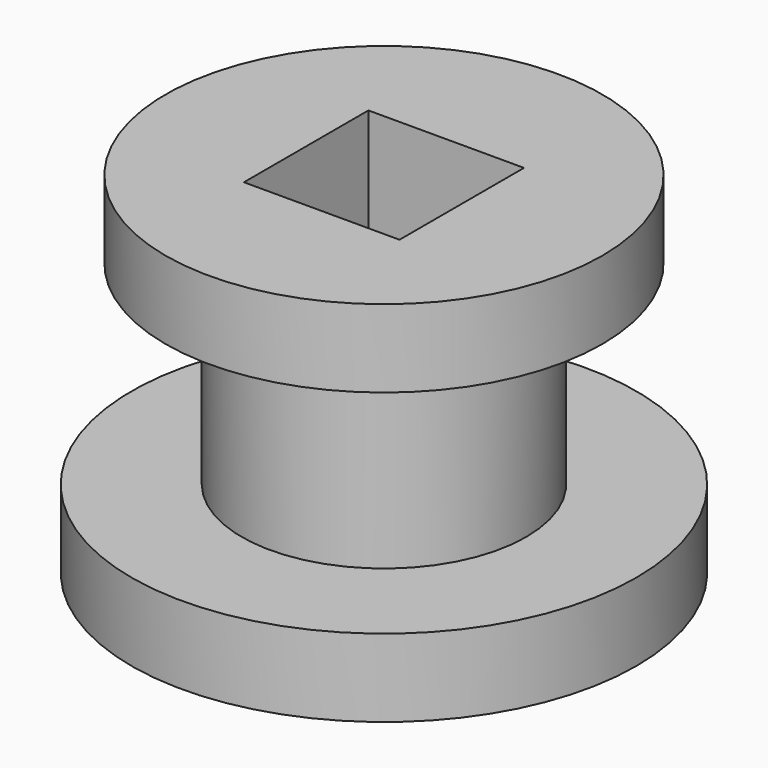
from build123d import *

# Parameters (mm, degrees)
F0_R     = 41.203312
F1_DEPTH = 12.7
F2_R     = 23.225179
F3_DEPTH = 44.45
F4_R     = 35.645191
F5_DEPTH = 12.7
F6_W     = 25.4
F6_H     = 25.4
F7_DEPTH = 57.151


with BuildPart() as f1:
    # F0 (on Top) → F1 (new body)
    with BuildSketch(Plane.XY):
        Circle(F0_R)
    extrude(amount=F1_DEPTH)

    # F2 (on Top) → F3 (join)
    with BuildSketch(Plane.XY):
        Circle(F2_R)
    extrude(amount=F3_DEPTH)

    # F4 (on face) → F5 (join)
    with BuildSketch(Plane.XY.offset(44.45)):
        Circle(F4_R)
    extrude(amount=F5_DEPTH)

    # F6 (on face) → F7 (cut, through all)
    with BuildSketch(Plane.XY.offset(57.15)):
        Rectangle(F6_W, F6_H)
    extrude(amount=-F7_DEPTH, mode=Mode.SUBTRACT)


solid = f1.part
